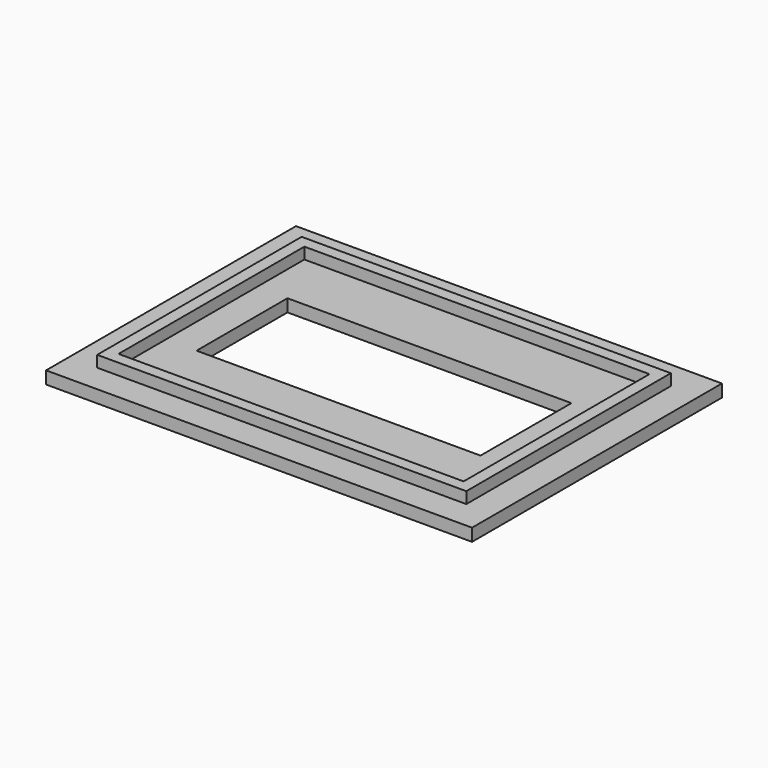
from build123d import *

# Parameters (mm, degrees)
F0_W     = 95.25
F0_H     = 69.85
F0_W_2   = 82.55
F0_H_2   = 57.15
F1_DEPTH = 2.794
F0_W_3   = 77.174016
F0_H_3   = 51.943318
F2_DEPTH = 5.334
F0_W_4   = 63.5
F0_H_4   = 25.4
F3_DEPTH = 2.794


with BuildPart() as f1:
    # F0 (on Top) → F1 (new body)
    with BuildSketch(Plane.XY):
        Rectangle(F0_W, F0_H)
        Rectangle(F0_W_2, F0_H_2, mode=Mode.SUBTRACT)
    extrude(amount=F1_DEPTH)

    # F0 (on Top) → F2 (join)
    with BuildSketch(Plane.XY):
        Rectangle(F0_W_2, F0_H_2)
        Rectangle(F0_W_3, F0_H_3, mode=Mode.SUBTRACT)
    extrude(amount=F2_DEPTH)

    # F0 (on Top) → F3 (join)
    with BuildSketch(Plane.XY):
        Rectangle(F0_W_3, F0_H_3)
        Rectangle(F0_W_4, F0_H_4, mode=Mode.SUBTRACT)
    extrude(amount=F3_DEPTH)


solid = f1.part
